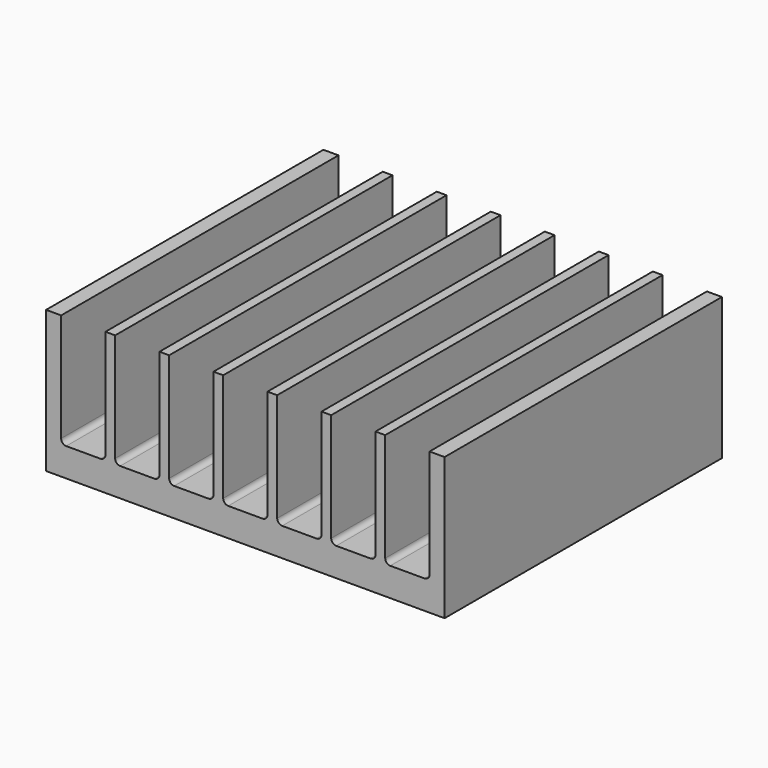
from build123d import *

# Parameters (mm, degrees)
F1_DEPTH = 27.178
F2_R     = 0.396875


with BuildPart() as f1:
    # F0 (on Front) → F1 (new body)
    with BuildSketch(Plane.XZ):
        Polygon((0, 0), (31.242, 0), (31.242, 11.1252), (30.0609, 11.1252), (30.0609, 2.2352), (26.588357, 2.2352), (26.588357, 11.1252), (25.826357, 11.1252), (25.826357, 2.2352), (22.353814, 2.2352), (22.353814, 11.1252), (21.591814, 11.1252), (21.591814, 2.2352), (18.119271, 2.2352), (18.119271, 11.1252), (17.357271, 11.1252), (17.357271, 2.2352), (13.884729, 2.2352), (13.884729, 11.1252), (13.122729, 11.1252), (13.122729, 2.2352), (9.650186, 2.2352), (9.650186, 11.1252), (8.888186, 11.1252), (8.888186, 2.2352), (5.415643, 2.2352), (5.415643, 11.1252), (4.653643, 11.1252), (4.653643, 2.2352), (1.1811, 2.2352), (1.1811, 11.1252), (0, 11.1252), align=None)
    extrude(amount=F1_DEPTH)

    # F2
    f2_edges = [f1.edges().sort_by_distance(p)[0] for p in [
        (1.1811, -13.589, 2.2352),
        (4.653643, -13.589, 2.2352),
        (5.415643, -13.589, 2.2352),
        (8.888186, -13.589, 2.2352),
        (9.650186, -13.589, 2.2352),
        (13.122729, -13.589, 2.2352),
        (13.884729, -13.589, 2.2352),
        (17.357271, -13.589, 2.2352),
        (18.119271, -13.589, 2.2352),
        (21.591814, -13.589, 2.2352),
        (22.353814, -13.589, 2.2352),
        (25.826357, -13.589, 2.2352),
        (26.588357, -13.589, 2.2352),
        (30.0609, -13.589, 2.2352),
    ]]
    fillet(f2_edges, radius=F2_R)


solid = f1.part
